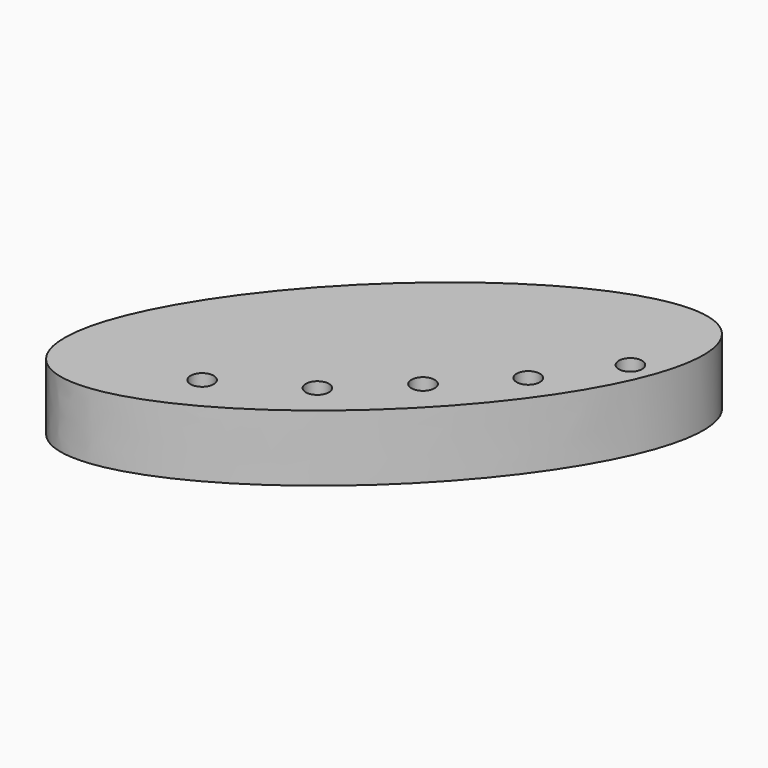
from build123d import *

# Parameters (mm, degrees)
F0_R     = 1.75
F1_DEPTH = 10


with BuildPart() as f1:
    # F0 (on Top) → F1 (new body)
    with BuildSketch(Plane.XY):
        with BuildLine():
            add(Edge.make_bspline(
                [(-3.668983, 11.460189), (-22.961143, 31.355228), (-56.389087, -20.361042), (-89.81703, -72.077312), (-37.096927, -40.256081), (15.623176, -8.43485), (-3.668983, 11.460189)],
                knots=[0, 0, 0, 2.094395, 2.094395, 4.18879, 4.18879, 6.283185, 6.283185, 6.283185], degree=2, weights=[1, 0.5, 1, 0.5, 1, 0.5, 1]))
        make_face()
        with Locations((-43.782645, -36.472461)):
            Circle(F0_R, mode=Mode.SUBTRACT)
        with Locations((-31.877, -29.593645)):
            Circle(F0_R, mode=Mode.SUBTRACT)
        with Locations((-22.796144, -21.003647)):
            Circle(F0_R, mode=Mode.SUBTRACT)
        with Locations((-14.079208, -12.044572)):
            Circle(F0_R, mode=Mode.SUBTRACT)
        with Locations((-6.747835, -1.920296)):
            Circle(F0_R, mode=Mode.SUBTRACT)
    extrude(amount=F1_DEPTH)


solid = f1.part
